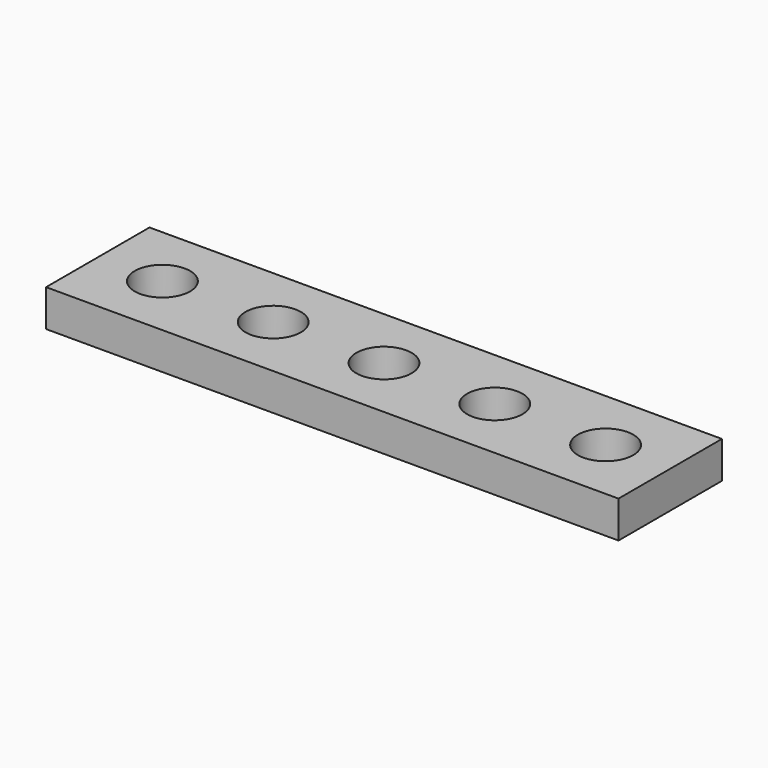
from build123d import *

# Parameters (mm, degrees)
CYLINDER001_R     = 1.5
CYLINDER001_DEPTH = 2
CYLINDER002_R     = 1.5
CYLINDER002_DEPTH = 2
CYLINDER003_R     = 1.5
CYLINDER003_DEPTH = 2
CYLINDER004_R     = 1.5
CYLINDER004_DEPTH = 2
CYLINDER_R        = 1.5
CYLINDER_DEPTH    = 2
BOX_W             = 31
BOX_H             = 7
BOX_DEPTH         = 2


with BuildPart() as cylinder001:
    # Cylinder001 → Cylinder001 (new body)
    with BuildSketch(Plane(origin=(9.5, 3.5, 0), x_dir=(1, 0, 0), z_dir=(0, 0, 1))):
        Circle(CYLINDER001_R)
    extrude(amount=CYLINDER001_DEPTH)


with BuildPart() as cylinder002:
    # Cylinder002 → Cylinder002 (new body)
    with BuildSketch(Plane(origin=(15.5, 3.5, 0), x_dir=(1, 0, 0), z_dir=(0, 0, 1))):
        Circle(CYLINDER002_R)
    extrude(amount=CYLINDER002_DEPTH)


with BuildPart() as cylinder003:
    # Cylinder003 → Cylinder003 (new body)
    with BuildSketch(Plane(origin=(21.5, 3.5, 0), x_dir=(1, 0, 0), z_dir=(0, 0, 1))):
        Circle(CYLINDER003_R)
    extrude(amount=CYLINDER003_DEPTH)


with BuildPart() as cylinder004:
    # Cylinder004 → Cylinder004 (new body)
    with BuildSketch(Plane(origin=(27.5, 3.5, 0), x_dir=(1, 0, 0), z_dir=(0, 0, 1))):
        Circle(CYLINDER004_R)
    extrude(amount=CYLINDER004_DEPTH)


with BuildPart() as fusion:
    # Cylinder → Cylinder (new body)
    with BuildSketch(Plane(origin=(3.5, 3.5, 0), x_dir=(1, 0, 0), z_dir=(0, 0, 1))):
        Circle(CYLINDER_R)
    extrude(amount=CYLINDER_DEPTH)

    # Fusion: union Cylinder001, Cylinder002, Cylinder003, Cylinder004
    add(cylinder001.part)
    add(cylinder002.part)
    add(cylinder003.part)
    add(cylinder004.part)


with BuildPart() as obj1:
    # Box → Box (new body)
    with BuildSketch(Plane.XY):
        with Locations((15.5, 3.5)):
            Rectangle(BOX_W, BOX_H)
    extrude(amount=BOX_DEPTH)

    # Cut: cut Fusion
    add(fusion.part, mode=Mode.SUBTRACT)


solid = obj1.part
